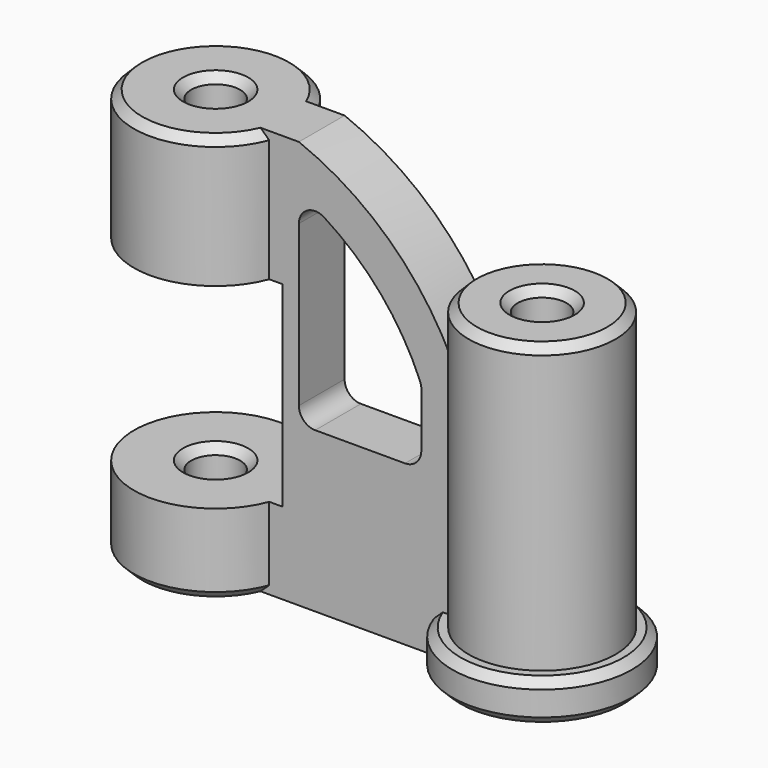
from build123d import *

# Parameters (mm, degrees)
F0_R      = 25.4
F0_R_2    = 7.62
F1_DEPTH  = 127
F0_R_3    = 22.86
F2_DEPTH  = 101.6
F4_DEPTH  = 8.89
F5_W      = 60.96
F5_H      = 60.96
F6_DEPTH  = 50.8
F7_R      = 5.08
F8_SIZE   = 2.54
F9_R      = 27.94
F9_R_2    = 22.86
F10_DEPTH = 12.7
F11_SIZE  = 2.54


with BuildPart() as f1:
    # F0 (on Top) → F1 (new body)
    with BuildSketch(Plane.XY):
        Circle(F0_R)
        Circle(F0_R_2, mode=Mode.SUBTRACT)
    extrude(amount=F1_DEPTH)



with BuildPart() as f2:
    # F0 (on Top) → F2 (new body)
    with BuildSketch(Plane.XY):
        with Locations((101.6, 0)):
            Circle(F0_R_3)
        with Locations((101.6, 0)):
            Circle(F0_R_2, mode=Mode.SUBTRACT)
    extrude(amount=F2_DEPTH)


with BuildPart() as f1_1:
    add(f1.part)

    add(f2.part)  # F4 merges F2
    # F3 (on Front) → F4 (join, symmetric)
    with BuildSketch(Plane.XZ):
        with BuildLine():
            Line((20.32, 127), (20.32, 0))
            Line((20.32, 0), (81.28, 0))
            Line((81.28, 0), (81.28, 81.28))
            ThreePointArc((81.28, 81.28), (61.5844056789, 108.82076155), (33.02, 127))
            Line((33.02, 127), (20.32, 127))
        make_face()
        with BuildLine():
            ThreePointArc((33.02, 113.1692568198), (55.8815349001, 96.5627163287), (71.12, 72.7674195988))
            Line((71.12, 72.7674195988), (71.12, 49.6692568198))
            Line((71.12, 49.6692568198), (33.02, 49.6692568198))
            Line((33.02, 49.6692568198), (33.02, 113.1692568198))
        make_face(mode=Mode.SUBTRACT)
    extrude(amount=F4_DEPTH, both=True)

    # F5 (on Front) → F6 (cut, symmetric)
    with BuildSketch(Plane.XZ):
        with Locations((-2.54, 55.88)):
            Rectangle(F5_W, F5_H)
    extrude(amount=F6_DEPTH, both=True, mode=Mode.SUBTRACT)

    # F7
    f7_edges = [f1_1.edges().sort_by_distance(p)[0] for p in [
        (33.02, 0, 113.169257),
        (33.02, 0, 49.669257),
        (71.12, 0, 49.669257),
        (71.12, 0, 72.76742),
    ]]
    fillet(f7_edges, radius=F7_R)

    # F8
    f8_edges = [f1_1.edges().sort_by_distance(p)[0] for p in [
        (-25.4, 0, 127),
        (-7.62, 0, 127),
        (-7.62, 0, 25.4),
        (-25.4, 0, 0),
        (-7.62, 0, 86.36),
        (-7.62, 0, 0),
    ]]
    chamfer(f8_edges, length=F8_SIZE)

    # F9 (on Top) → F10 (join)
    with BuildSketch(Plane.XY):
        with Locations((101.6, 0)):
            Circle(F9_R)
        with Locations((101.6, 0)):
            Circle(F9_R_2, mode=Mode.SUBTRACT)
    extrude(amount=F10_DEPTH)

    # F11
    f11_edges = [f1_1.edges().sort_by_distance(p)[0] for p in [
        (93.98, 0, 0),
        (129.54, 0, 0),
        (93.98, 0, 101.6),
        (129.54, 0, 12.7),
        (78.74, 0, 101.6),
    ]]
    chamfer(f11_edges, length=F11_SIZE)


solid = f1_1.part
